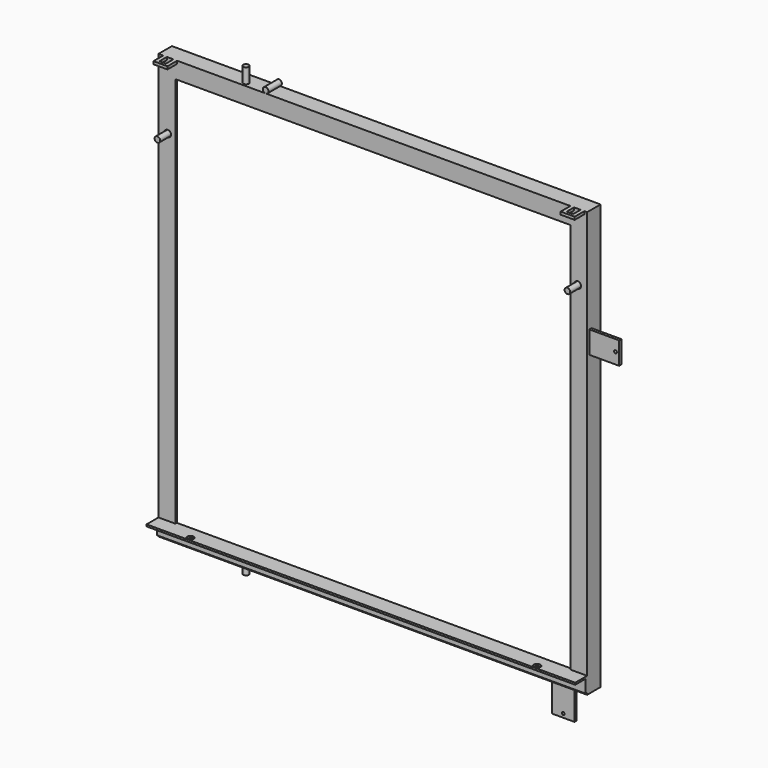
from build123d import *

# Parameters (mm, degrees)
SKETCH_W        = 730.25
SKETCH_H        = 723.9
SKETCH_W_2      = 673.1
SKETCH_H_2      = 666.75
PAD_DEPTH       = 3.175
SKETCH001_W     = 730.25
SKETCH001_H     = 723.9
SKETCH001_W_2   = 723.9
SKETCH001_H_2   = 717.55
PAD001_DEPTH    = 25.4
PAD002_DEPTH    = 730.25
SKETCH003_R     = 5.55625
POCKET_DEPTH    = 28.576
SKETCH004_W     = 23.8125
SKETCH004_H     = 23.8125
SKETCH004_W_2   = 11.1125
SKETCH004_H_2   = 15.875
PAD003_DEPTH    = 4.7625
SKETCH005_R     = 4.7625
PAD004_DEPTH    = 25.4
SKETCH006_R     = 4.7625
PAD005_DEPTH    = 12.7
SKETCH007_R     = 4.826
PAD006_DEPTH    = 28.575
SKETCH008_R     = 5.55625
POCKET001_DEPTH = 28.576
PAD007_DEPTH    = 5.953125
SKETCH010_R     = 4.7625
PAD008_DEPTH    = 25.4
SKETCH011_W     = 38.1
SKETCH011_H     = 4.7625
PAD009_DEPTH    = 50.8
SKETCH012_W     = 38.1
SKETCH012_H     = 4.7625
PAD010_DEPTH    = 50.8
SKETCH013_R     = 2.38125
POCKET002_DEPTH = 28.576


with BuildPart() as part:
    # Sketch → Pad (new body)
    with BuildSketch(Plane.XZ):
        with Locations((365.125, 361.95)):
            Rectangle(SKETCH_W, SKETCH_H)
        with Locations((365.125, 361.95)):
            Rectangle(SKETCH_W_2, SKETCH_H_2, mode=Mode.SUBTRACT)
    extrude(amount=-PAD_DEPTH)

    # Sketch001 (on Face10 of Pad) → Pad001 (join)
    with BuildSketch(Plane(origin=(0, 3.175, 0), x_dir=(1, 0, 0), z_dir=(0, 1, 0))):
        with Locations((365.125, -361.95)):
            Rectangle(SKETCH001_W, SKETCH001_H)
        with Locations((365.125, -361.95)):
            Rectangle(SKETCH001_W_2, SKETCH001_H_2, mode=Mode.SUBTRACT)
    extrude(amount=PAD001_DEPTH)

    # Sketch002 (on Face3 of Pad001) → Pad002 (join)
    with BuildSketch(Plane(origin=(730.25, 0, 0), x_dir=(0, 0, 1), z_dir=(1, 0, 0))):
        Polygon((3.175, 0), (28.575, 0), (28.575, 25.4), (25.4, 25.4), (25.4, 3.175), (3.175, 3.175), align=None)
    extrude(amount=-PAD002_DEPTH)

    # Sketch003 (on Face15 of Pad002) → Pocket (cut, through all)
    with BuildSketch(Plane(origin=(0, 0, 28.575), x_dir=(-1, 0, 0), z_dir=(0, 0, 1))):
        with Locations((-660.4, 19.05)):
            Circle(SKETCH003_R)
        with Locations((-69.85, 19.05)):
            Circle(SKETCH003_R)
    extrude(amount=-POCKET_DEPTH, mode=Mode.SUBTRACT)

    # Sketch004 (on Face6 of Pocket) → Pad003 (join)
    with BuildSketch(Plane(origin=(0, 0, 723.9), x_dir=(-1, 0, 0), z_dir=(0, 0, 1))):
        with Locations((-713.58125, 8.73125)):
            Rectangle(SKETCH004_W, SKETCH004_H)
        with Locations((-713.58125, 7.9375)):
            Rectangle(SKETCH004_W_2, SKETCH004_H_2, mode=Mode.SUBTRACT)
        with Locations((-19.84375, 8.73125)):
            Rectangle(SKETCH004_W, SKETCH004_H)
        with Locations((-19.84375, 7.9375)):
            Rectangle(SKETCH004_W_2, SKETCH004_H_2, mode=Mode.SUBTRACT)
    extrude(amount=-PAD003_DEPTH)

    # Sketch005 (on Face16 of Pad003) → Pad004 (join)
    with BuildSketch(Plane(origin=(0, 0, 723.9), x_dir=(-1, 0, 0), z_dir=(0, 0, 1))):
        with Locations((-142.875, -7.9375)):
            Circle(SKETCH005_R)
    extrude(amount=PAD004_DEPTH)

    # Sketch006 (on Face5 of Pad004) → Pad005 (join)
    with BuildSketch(Plane(origin=(0, 0, 0), x_dir=(1, 0, 0), z_dir=(0, 0, -1))):
        with Locations((142.875, -7.9375)):
            Circle(SKETCH006_R)
    extrude(amount=PAD005_DEPTH)

    # Sketch007 (on Face7 of Pad005) → Pad006 (join)
    with BuildSketch(Plane.XZ):
        with Locations((182.5625, 728.599)):
            Circle(SKETCH007_R)
    extrude(amount=-PAD006_DEPTH)

    # Sketch008 (on Face7 of Pad006) → Pocket001 (cut, through all)
    with BuildSketch(Plane.XZ):
        with Locations((15.875, 609.6)):
            Circle(SKETCH008_R)
        with Locations((714.375, 609.6)):
            Circle(SKETCH008_R)
    extrude(amount=-POCKET001_DEPTH, mode=Mode.SUBTRACT)

    # Sketch009 (on Face49 of Pocket001) → Pad007 (join)
    with BuildSketch(Plane(origin=(0, 3.175, 0), x_dir=(1, 0, 0), z_dir=(0, 1, 0))):
        Polygon((23.01875, -605.475554), (15.875, -601.351108), (8.73125, -605.475554), (8.73125, -613.724446), (15.875, -617.848892), (23.01875, -613.724446), align=None)
        Polygon((714.375, -601.351108), (707.23125, -605.475554), (707.23125, -613.724446), (714.375, -617.848892), (721.51875, -613.724446), (721.51875, -605.475554), align=None)
    extrude(amount=PAD007_DEPTH)

    # Sketch010 (on Face64 of Pad007) → Pad008 (join)
    with BuildSketch(Plane.XZ.offset(-3.175)):
        with Locations((15.875, 609.6)):
            Circle(SKETCH010_R)
        with Locations((714.375, 609.6)):
            Circle(SKETCH010_R)
    extrude(amount=PAD008_DEPTH)

    # Sketch011 (on Face12 of Pad008) → Pad009 (join)
    with BuildSketch(Plane(origin=(730.25, 0, 0), x_dir=(0, 0, 1), z_dir=(1, 0, 0))):
        with Locations((527.05, -7.14375)):
            Rectangle(SKETCH011_W, SKETCH011_H)
    extrude(amount=PAD009_DEPTH)

    # Sketch012 (on Face5 of Pad009) → Pad010 (join)
    with BuildSketch(Plane(origin=(0, 0, 0), x_dir=(1, 0, 0), z_dir=(0, 0, -1))):
        with Locations((685.8, -7.14375)):
            Rectangle(SKETCH012_W, SKETCH012_H)
    extrude(amount=PAD010_DEPTH)

    # Sketch013 (on Face7 of Pad010) → Pocket002 (cut, through all)
    with BuildSketch(Plane.XZ):
        with Locations((774.7, 527.05)):
            Circle(SKETCH013_R)
        with Locations((685.8, -44.45)):
            Circle(SKETCH013_R)
    extrude(amount=-POCKET002_DEPTH, mode=Mode.SUBTRACT)


solid = part.part
